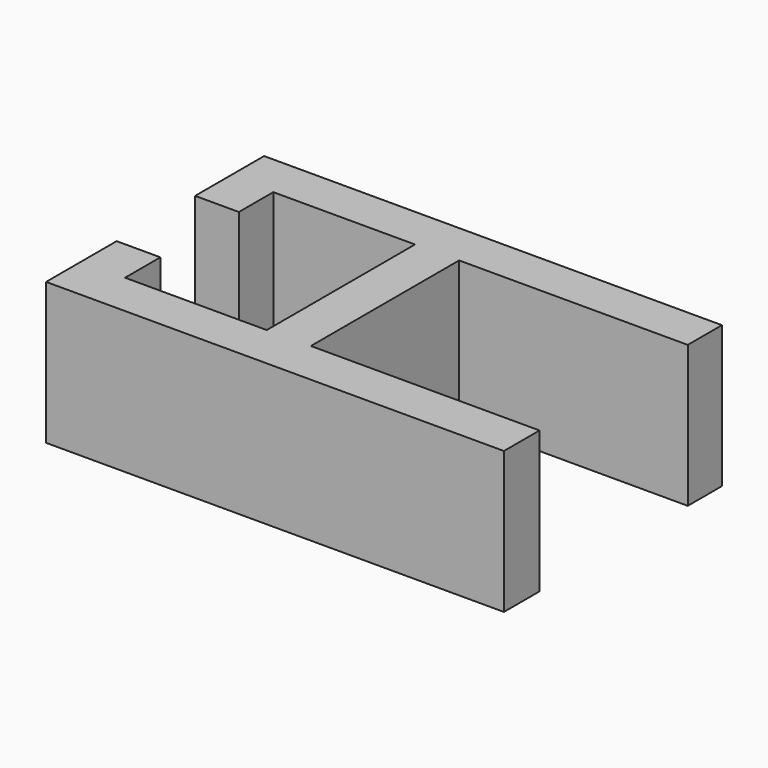
from build123d import *

# Parameters (mm, degrees)
SKETCH_W        = 42
SKETCH_H        = 25
PAD_DEPTH       = 13
SKETCH001_W     = 21
SKETCH001_H     = 17
POCKET_DEPTH    = 17
SKETCH002_W     = 13
SKETCH002_H     = 17
POCKET001_DEPTH = 17
SKETCH003_W     = 5
SKETCH003_H     = 9
POCKET002_DEPTH = 17


with BuildPart() as part:
    # Sketch → Pad (new body)
    with BuildSketch(Plane.XY):
        with Locations((21, 12.5)):
            Rectangle(SKETCH_W, SKETCH_H)
    extrude(amount=PAD_DEPTH)

    # Sketch001 (on Face6 of Pad) → Pocket (cut)
    with BuildSketch(Plane.XY.offset(13)):
        with Locations((31.524242, 12.582062)):
            Rectangle(SKETCH001_W, SKETCH001_H)
    extrude(amount=-POCKET_DEPTH, mode=Mode.SUBTRACT)

    # Sketch002 (on Face5 of Pocket) → Pocket001 (cut)
    with BuildSketch(Plane.XY.offset(13)):
        with Locations((10.513225, 12.53867)):
            Rectangle(SKETCH002_W, SKETCH002_H)
    extrude(amount=-POCKET001_DEPTH, mode=Mode.SUBTRACT)

    # Sketch003 (on Face5 of Pocket001) → Pocket002 (cut)
    with BuildSketch(Plane.XY.offset(13)):
        with Locations((2.5, 12.591292)):
            Rectangle(SKETCH003_W, SKETCH003_H)
    extrude(amount=-POCKET002_DEPTH, mode=Mode.SUBTRACT)


solid = part.part
